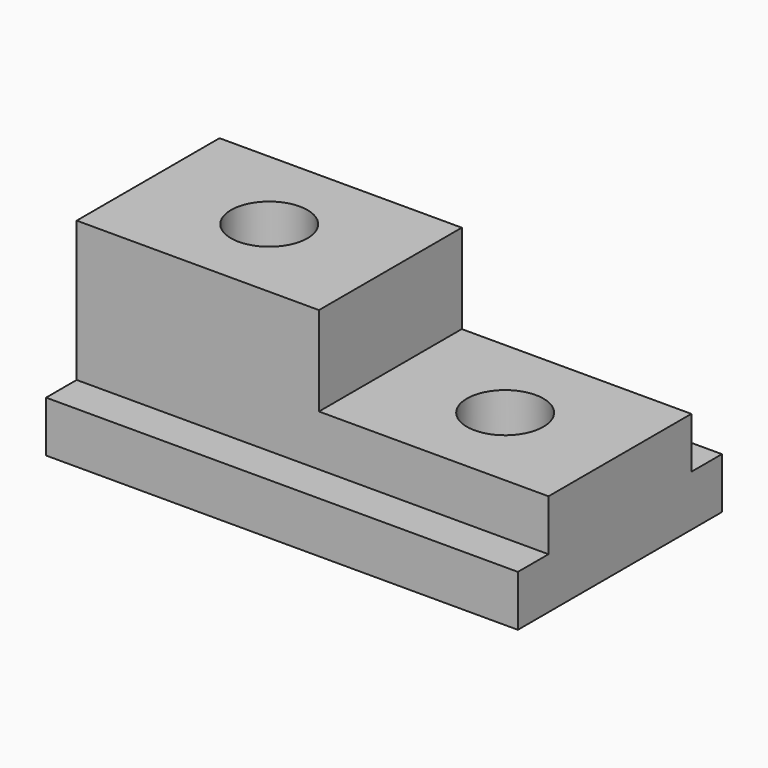
from build123d import *

# Parameters (mm, degrees)
F1_DEPTH = 117.475
F2_R     = 9.525
F3_DEPTH = 161.29
F4_W     = 44.45
F4_H     = 22.225
F5_DEPTH = 57.15


with BuildPart() as f1:
    # F0 (on Right) → F1 (new body)
    with BuildSketch(Plane.YZ):
        Polygon((0, 12.7), (0, 0), (63.5, 0), (63.5, 12.7), (53.975, 12.7), (53.975, 47.625), (9.525, 47.625), (9.525, 12.7), align=None)
    extrude(amount=F1_DEPTH)

    # F2 (on face) → F3 (cut)
    with BuildSketch(Plane.XY.offset(47.625)):
        with Locations((30.1625, 31.75)):
            Circle(F2_R)
        with Locations((88.9, 31.75)):
            Circle(F2_R)
    extrude(amount=-F3_DEPTH, mode=Mode.SUBTRACT)

    # F4 (on face) → F5 (cut)
    with BuildSketch(Plane.YZ.offset(117.475)):
        with Locations((31.75, 36.5125)):
            Rectangle(F4_W, F4_H)
    extrude(amount=-F5_DEPTH, mode=Mode.SUBTRACT)


solid = f1.part
